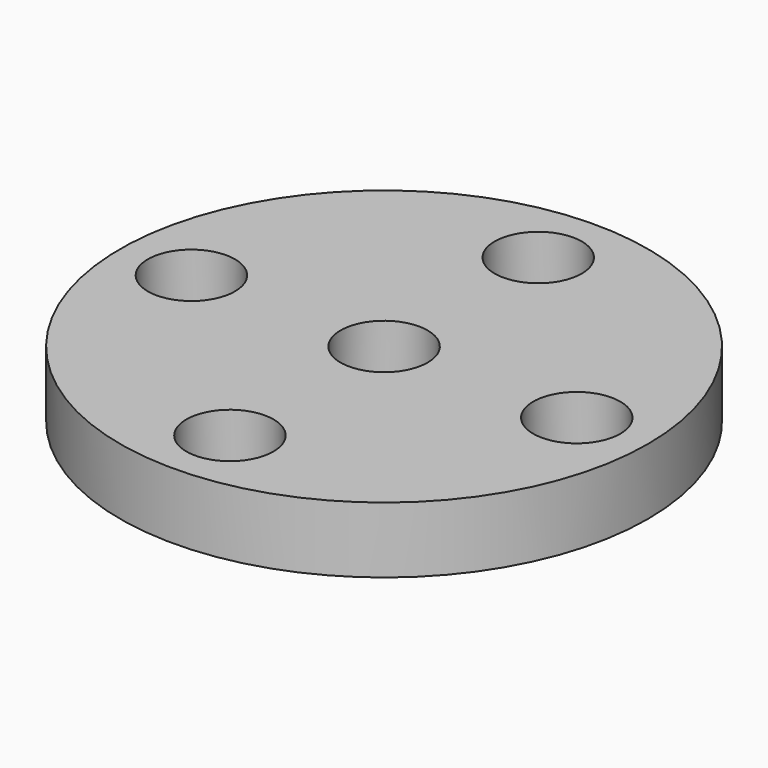
from build123d import *

# Parameters (mm, degrees)
SKETCH_R      = 4.5
SKETCH_R_2    = 2.8
PAD_DEPTH     = 2
SKETCH001_R   = 10
SKETCH001_R_2 = 1.65
PAD001_DEPTH  = 2.5
SKETCH002_R   = 1.65
POCKET_DEPTH  = 4.501


with BuildPart() as part:
    # Sketch → Pad (new body)
    with BuildSketch(Plane.XY):
        Circle(SKETCH_R)
        Circle(SKETCH_R_2, mode=Mode.SUBTRACT)
    extrude(amount=PAD_DEPTH)

    # Sketch001 (on Face4 of Pad) → Pad001 (join)
    with BuildSketch(Plane.XY.offset(2)):
        Circle(SKETCH001_R)
        Circle(SKETCH001_R_2, mode=Mode.SUBTRACT)
    extrude(amount=PAD001_DEPTH)

    # Sketch002 (on Face7 of Pad001) → Pocket (cut, through all)
    with BuildSketch(Plane.XY.offset(4.5)):
        with Locations((-7.3, 0)):
            Circle(SKETCH002_R)
        with Locations((0, -7.3)):
            Circle(SKETCH002_R)
        with Locations((0, 7.3)):
            Circle(SKETCH002_R)
        with Locations((7.3, 0)):
            Circle(SKETCH002_R)
    extrude(amount=-POCKET_DEPTH, mode=Mode.SUBTRACT)


solid = part.part
